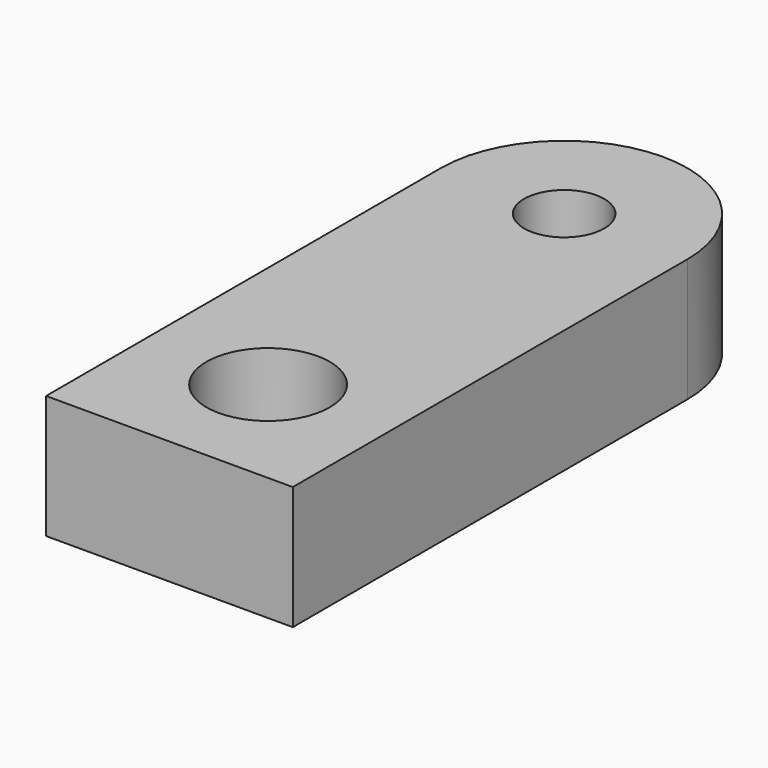
from build123d import *

# Parameters (mm, degrees)
F0_R     = 5
F1_DEPTH = 10


with BuildPart() as f1:
    # F0 (on Top) → F1 (new body)
    with BuildSketch(Plane.XY):
        with BuildLine():
            Line((3.25, 20), (10, 20))
            ThreePointArc((10, 20), (0, 30), (-10, 20))
            Line((-10, 20), (-3.25, 20))
            ThreePointArc((-3.25, 20), (0, 23.25), (3.25, 20))
        make_face()
        with BuildLine():
            Line((-10, -20), (10, -20))
            Line((10, -20), (10, 20))
            Line((10, 20), (3.25, 20))
            ThreePointArc((3.25, 20), (0, 16.75), (-3.25, 20))
            Line((-3.25, 20), (-10, 20))
            Line((-10, 20), (-10, -20))
        make_face()
        with Locations((0, -10)):
            Circle(F0_R, mode=Mode.SUBTRACT)
    extrude(amount=F1_DEPTH)


solid = f1.part
